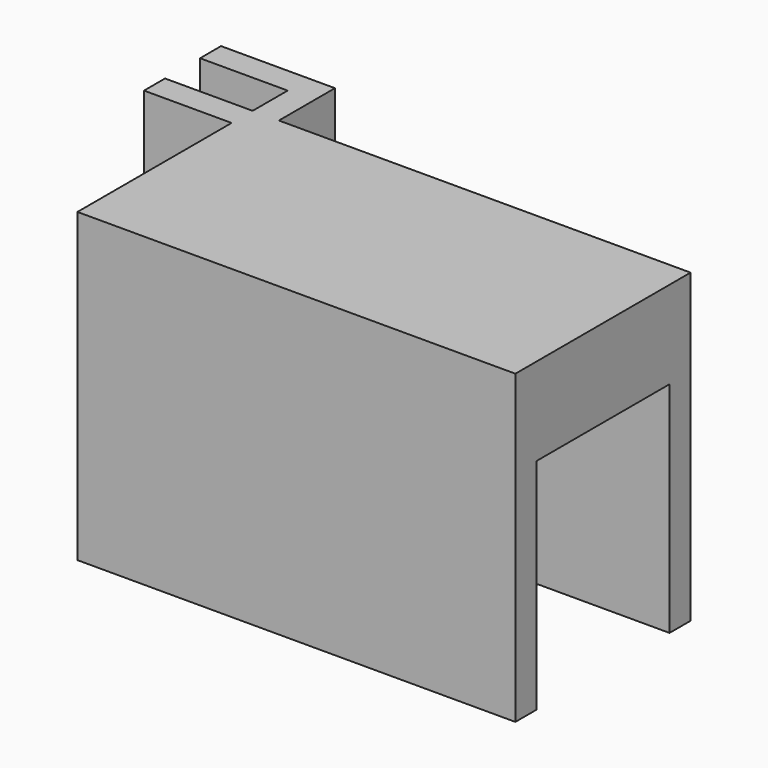
from build123d import *

# Parameters (mm, degrees)
F1_DEPTH = 10
F2_W     = 50
F2_H     = 3
F3_DEPTH = 25


with BuildPart() as f1:
    # F0 (on Top) → F1 (new body)
    with BuildSketch(Plane.XY):
        Polygon((-32.9432, 22.939983), (-32.935701, 19.939983), (-22.935701, 19.939983), (-22.935701, 14.939983), (-32.935701, 14.939983), (-32.935701, 11.939982), (-22.935701, 11.939982), (-22.935701, -10.060017), (27.064299, -10.060017), (27.064299, 14.939983), (-19.9357, 14.939983), (-19.9357, 16.371092), (-19.9357, 22.939983), align=None)
    extrude(amount=F1_DEPTH)

    # F2 (on face) → F3 (join)
    with BuildSketch(Plane(origin=(0, 0, 0), x_dir=(1, 0, 0), z_dir=(0, 0, -1))):
        Polygon((27.064299, -11.939983), (-22.935701, -11.939983), (-22.935701, -14.939983), (-19.9357, -14.939983), (27.064299, -14.939983), align=None)
        with Locations((2.064299, 8.560017)):
            Rectangle(F2_W, F2_H)
    extrude(amount=F3_DEPTH)


solid = f1.part
